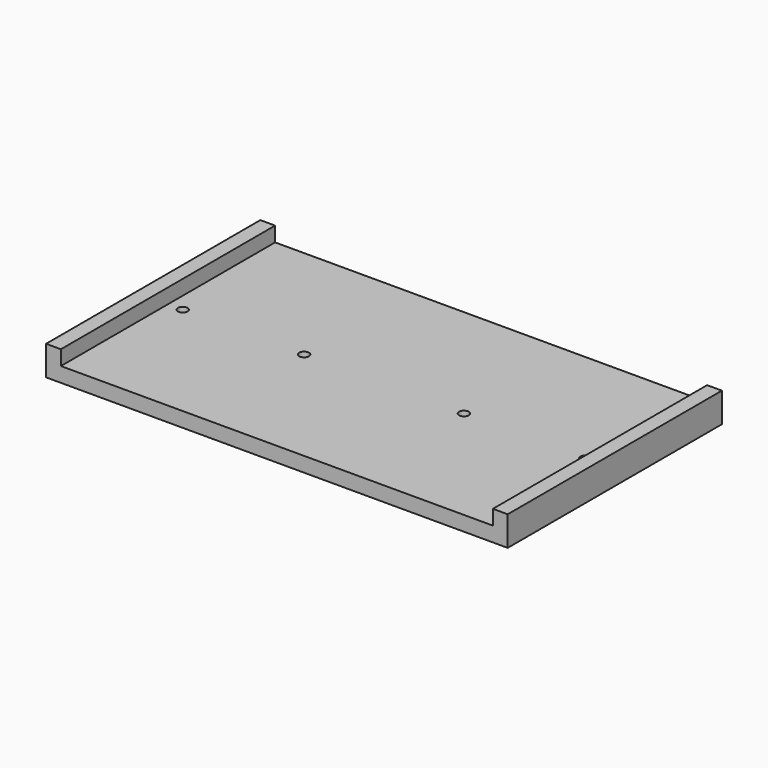
from build123d import *

# Parameters (mm, degrees)
F0_W     = 5
F0_H     = 90.5
F0_W_2   = 146
F1_DEPTH = 5
F2_W     = 5
F2_H     = 90.5
F3_DEPTH = 5
F4_R     = 1.65
F5_DEPTH = 10.001


with BuildPart() as f1:
    # F0 (on Top) → F1 (new body)
    with BuildSketch(Plane.XY):
        with Locations((75.5, 0)):
            Rectangle(F0_W, F0_H)
        Rectangle(F0_W_2, F0_H)
        with Locations((-75.5, 0)):
            Rectangle(F0_W, F0_H)
    extrude(amount=F1_DEPTH)

    # F2 (on face) → F3 (join)
    with BuildSketch(Plane.XY.offset(5)):
        with Locations((-75.5, 0)):
            Rectangle(F2_W, F2_H)
        with Locations((75.5, 0)):
            Rectangle(F2_W, F2_H)
    extrude(amount=F3_DEPTH)

    # F4 (on face) → F5 (cut, through all)
    with BuildSketch(Plane(origin=(0, 0, 0), x_dir=(1, 0, 0), z_dir=(0, 0, -1))):
        with Locations((-68, 0)):
            Circle(F4_R)
        with Locations((-27, 0)):
            Circle(F4_R)
        with Locations((27, 0)):
            Circle(F4_R)
        with Locations((68, 0)):
            Circle(F4_R)
    extrude(amount=-F5_DEPTH, mode=Mode.SUBTRACT)


solid = f1.part
